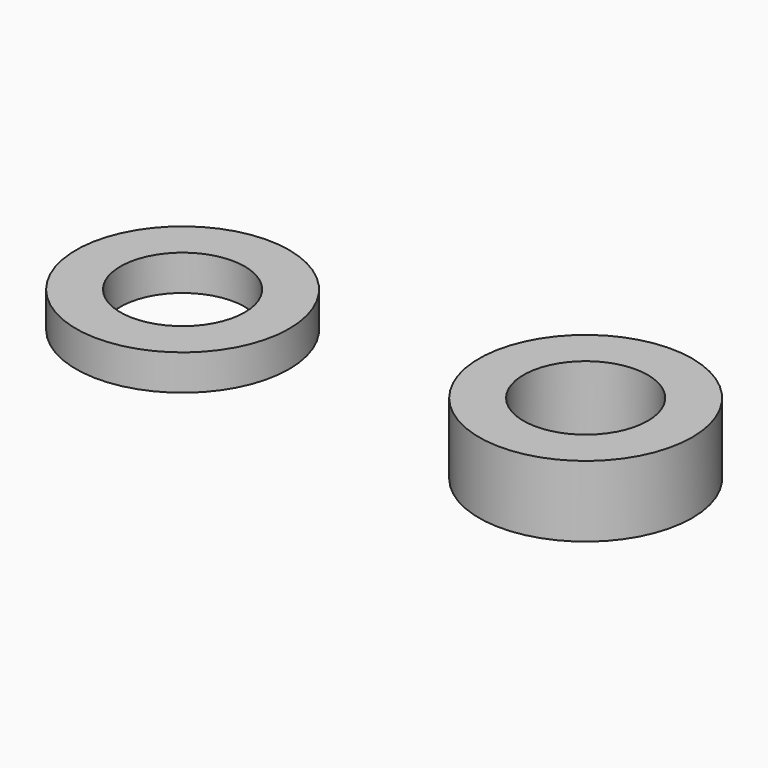
from build123d import *

# Parameters (mm, degrees)
F0_R     = 3
F1_DEPTH = 1
F2_R     = 1.75
F3_DEPTH = 25
F4_R     = 3
F4_R_2   = 1.75
F5_DEPTH = 2


with BuildPart() as f1:
    # F0 (on Top) → F1 (new body)
    with BuildSketch(Plane.XY):
        Circle(F0_R)
    extrude(amount=F1_DEPTH)

    # F2 (on face) → F3 (cut)
    with BuildSketch(Plane.XY.offset(1)):
        Circle(F2_R)
    extrude(amount=-F3_DEPTH, mode=Mode.SUBTRACT)


with BuildPart() as f5:
    # F4 (on Top) → F5 (new body)
    with BuildSketch(Plane.XY):
        with Locations((11.34353, 0)):
            Circle(F4_R)
        with Locations((11.34353, 0)):
            Circle(F4_R_2, mode=Mode.SUBTRACT)
    extrude(amount=F5_DEPTH)


solid = Compound([f1.part, f5.part])
